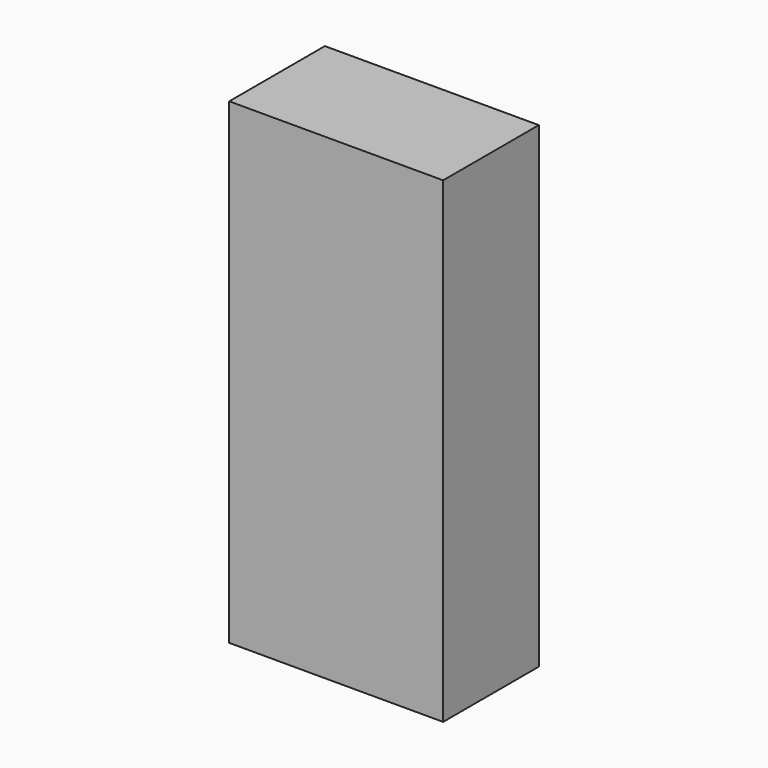
from build123d import *

# Parameters (mm, degrees)
F0_W     = 47.7485843003
F0_H     = 26.6923364252
F1_DEPTH = 31.496
F2_DEPTH = 43.434


with BuildPart() as f1:
    # F0 (on Top) → F1 (new body, symmetric)
    with BuildSketch(Plane.XY):
        with Locations((-23.8742921501, 13.3461682126)):
            Rectangle(F0_W, F0_H)
    extrude(amount=F1_DEPTH, both=True)

    # F2 (add): a face of the model
    f2_faces = [f1.faces().sort_by_distance(p)[0] for p in [
        (-23.8742921501, 13.3461682126, 31.496),
    ]]
    extrude(f2_faces, amount=F2_DEPTH)


solid = f1.part
